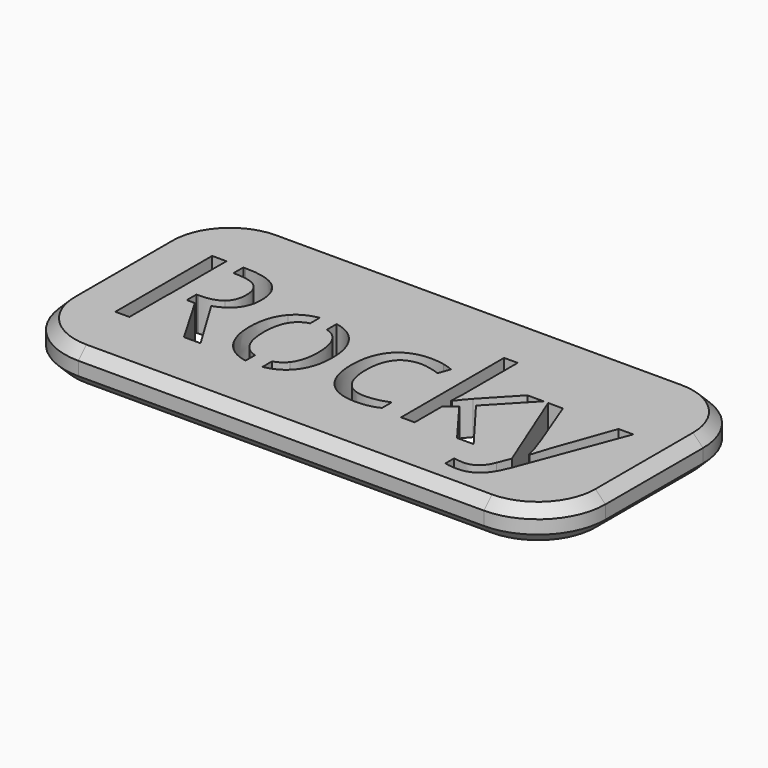
from build123d import *

# Parameters (mm, degrees)
F0_W     = 80
F0_H     = 38.0584481021
F0_W_2   = 2.5
F0_H_2   = 3.0301018535
F0_H_3   = 1.7870339268
F0_H_4   = 6.8463777852
F0_H_5   = 1.8262232673
F0_H_6   = 1.2891174926
F1_DEPTH = 5
F2_R     = 10
F3_SIZE  = 1.5


with BuildPart() as f1:
    # F0 (on Top) → F1 (new body)
    with BuildSketch(Plane.XY):
        with Locations((4.9899183214, -14.9412526352)):
            Rectangle(F0_W, F0_H)
        with BuildLine():
            Line((-8.1583093852, -10.3956553421), (-8.1583093852, -8.6449896917))
            Line((-8.1583093852, -8.6449896917), (-5.6583093852, -8.6449896917))
            Line((-5.6583093852, -8.6449896917), (-5.6583093852, -10.4018821078))
            add(Edge.make_bspline(
                [(-5.6583093852, -10.4018821078), (-3.7018317601, -10.7356711162), (-2.4266643681, -12.176444663)],
                knots=[0.2316734709, 0.2316734709, 0.2316734709, 1, 1, 1], degree=2))
            add(Edge.make_bspline(
                [(-2.4266643681, -12.176444663), (-0.766995798, -14.0516546058), (-0.766995798, -17.2455858565)],
                knots=[0, 0, 0, 1, 1, 1], degree=2))
            add(Edge.make_bspline(
                [(-0.766995798, -17.2455858565), (-0.766995798, -20.5296525904), (-2.4188265, -22.3735110609)],
                knots=[0, 0, 0, 1, 1, 1], degree=2))
            add(Edge.make_bspline(
                [(-2.4188265, -22.3735110609), (-3.6738058121, -23.7743835788), (-5.6583093852, -24.1109424073)],
                knots=[0, 0, 0, 0.7597505667, 0.7597505667, 0.7597505667], degree=2))
            Line((-5.6583093852, -24.1109424073), (-5.6583093852, -26.3445042074))
            Line((-5.6583093852, -26.3445042074), (-8.1583093852, -26.3445042074))
            Line((-8.1583093852, -26.3445042074), (-8.1583093852, -24.1206810532))
            add(Edge.make_bspline(
                [(-8.1583093852, -24.1206810532), (-9.2605676573, -23.9312824708), (-10.18419432, -23.3708797766)],
                knots=[0.3379687219, 0.3379687219, 0.3379687219, 1, 1, 1], degree=2))
            add(Edge.make_bspline(
                [(-10.18419432, -23.3708797766), (-11.5793348418, -22.5243900218), (-12.3396080475, -20.9450595997)],
                knots=[0, 0, 0, 1, 1, 1], degree=2))
            add(Edge.make_bspline(
                [(-12.3396080475, -20.9450595997), (-13.0998812531, -19.3657291776), (-13.0998812531, -17.2455858565)],
                knots=[0, 0, 0, 1, 1, 1], degree=2))
            add(Edge.make_bspline(
                [(-13.0998812531, -17.2455858565), (-13.0998812531, -13.9654380567), (-11.4578478862, -12.1333363884)],
                knots=[0, 0, 0, 1, 1, 1], degree=2))
            add(Edge.make_bspline(
                [(-11.4578478862, -12.1333363884), (-10.1885842342, -10.7171531967), (-8.1583093852, -10.3956553421)],
                knots=[0, 0, 0, 0.7729828624, 0.7729828624, 0.7729828624], degree=2))
        make_face(mode=Mode.SUBTRACT)
        with BuildLine():
            add(Edge.make_bspline(
                [(11.554132855, -23.5158803364), (10.2099384759, -24.2173695314), (8.1642549018, -24.2173695314)],
                knots=[0, 0, 0, 1, 1, 1], degree=2))
            add(Edge.make_bspline(
                [(8.1642549018, -24.2173695314), (5.2485679687, -24.2173695314), (3.6496428763, -22.4224977365)],
                knots=[0, 0, 0, 1, 1, 1], degree=2))
            add(Edge.make_bspline(
                [(3.6496428763, -22.4224977365), (2.0507177839, -20.6276259416), (2.0507177839, -17.3435592078)],
                knots=[0, 0, 0, 1, 1, 1], degree=2))
            add(Edge.make_bspline(
                [(2.0507177839, -17.3435592078), (2.0507177839, -13.9771948589), (3.6751159476, -12.1392147895)],
                knots=[0, 0, 0, 1, 1, 1], degree=2))
            add(Edge.make_bspline(
                [(3.6751159476, -12.1392147895), (5.2995141113, -10.3012347201), (8.2974986595, -10.3012347201)],
                knots=[0, 0, 0, 1, 1, 1], degree=2))
            add(Edge.make_bspline(
                [(8.2974986595, -10.3012347201), (9.2654753699, -10.3012347201), (10.2334520802, -10.5108976917)],
                knots=[0, 0, 0, 1, 1, 1], degree=2))
            add(Edge.make_bspline(
                [(10.2334520802, -10.5108976917), (11.2014287905, -10.7205606634), (11.7500795575, -11.002723915)],
                knots=[0, 0, 0, 1, 1, 1], degree=2))
            Line((11.7500795575, -11.002723915), (11.1269690436, -12.727054897))
            add(Edge.make_bspline(
                [(11.1269690436, -12.727054897), (10.452912387, -12.4566484475), (9.6573687748, -12.2802964153)],
                knots=[0, 0, 0, 1, 1, 1], degree=2))
            add(Edge.make_bspline(
                [(9.6573687748, -12.2802964153), (8.8618251627, -12.103944383), (8.2504714509, -12.103944383)],
                knots=[0, 0, 0, 1, 1, 1], degree=2))
            add(Edge.make_bspline(
                [(8.2504714509, -12.103944383), (4.1591043028, -12.103944383), (4.1591043028, -17.3200456035)],
                knots=[0, 0, 0, 1, 1, 1], degree=2))
            add(Edge.make_bspline(
                [(4.1591043028, -17.3200456035), (4.1591043028, -19.792892989), (5.1564730185, -21.1155332309)],
                knots=[0, 0, 0, 1, 1, 1], degree=2))
            add(Edge.make_bspline(
                [(5.1564730185, -21.1155332309), (6.1538417342, -22.4381734727), (8.1133087592, -22.4381734727)],
                knots=[0, 0, 0, 1, 1, 1], degree=2))
            add(Edge.make_bspline(
                [(8.1133087592, -22.4381734727), (9.7906125325, -22.4381734727), (11.554132855, -21.7170896075)],
                knots=[0, 0, 0, 1, 1, 1], degree=2))
            Line((11.554132855, -21.7170896075), (11.554132855, -23.5158803364))
        make_face(mode=Mode.SUBTRACT)
        with BuildLine():
            Line((31.1879924452, -24.0449364332), (25.7720255882, -10.5481275652))
            Line((25.7720255882, -10.5481275652), (27.954871854, -10.5481275652))
            Line((27.954871854, -10.5481275652), (30.8940723915, -18.2018057647))
            add(Edge.make_bspline(
                [(30.8940723915, -18.2018057647), (31.8581301677, -20.8235726441), (32.0932662107, -21.987496057)],
                knots=[0, 0, 0, 1, 1, 1], degree=2))
            Line((32.0932662107, -21.987496057), (32.191239562, -21.987496057))
            add(Edge.make_bspline(
                [(32.191239562, -21.987496057), (32.347996924, -21.360466609), (32.8574583505, -19.8477580657)],
                knots=[0, 0, 0, 1, 1, 1], degree=2))
            add(Edge.make_bspline(
                [(32.8574583505, -19.8477580657), (33.366919777, -18.3350495224), (36.1846333589, -10.5481275652)],
                knots=[0, 0, 0, 1, 1, 1], degree=2))
            Line((36.1846333589, -10.5481275652), (38.3635606906, -10.5481275652))
            Line((38.3635606906, -10.5481275652), (32.5948897691, -25.83197036))
            add(Edge.make_bspline(
                [(32.5948897691, -25.83197036), (31.7366432122, -28.0971142408), (30.5923144696, -29.0474557479)],
                knots=[0, 0, 0, 1, 1, 1], degree=2))
            add(Edge.make_bspline(
                [(30.5923144696, -29.0474557479), (29.447985727, -29.997797255), (27.7824387558, -29.997797255)],
                knots=[0, 0, 0, 1, 1, 1], degree=2))
            add(Edge.make_bspline(
                [(27.7824387558, -29.997797255), (26.8497324519, -29.997797255), (25.9444586864, -29.7861748163)],
                knots=[0, 0, 0, 1, 1, 1], degree=2))
            Line((25.9444586864, -29.7861748163), (25.9444586864, -28.1598171856))
            add(Edge.make_bspline(
                [(25.9444586864, -28.1598171856), (26.618515343, -28.3048177455), (27.4493293616, -28.3048177455)],
                knots=[0, 0, 0, 1, 1, 1], degree=2))
            add(Edge.make_bspline(
                [(27.4493293616, -28.3048177455), (29.5459590783, -28.3048177455), (30.4394760417, -25.9534573155)],
                knots=[0, 0, 0, 1, 1, 1], degree=2))
            Line((30.4394760417, -25.9534573155), (31.1879924452, -24.0449364332))
        make_face(mode=Mode.SUBTRACT)
        with BuildLine():
            Line((-25.429693982, -6.0648670121), (-25.429693982, -4.7757495195))
            Line((-25.429693982, -4.7757495195), (-22.929693982, -4.7757495195))
            Line((-22.929693982, -4.7757495195), (-22.929693982, -6.0648670121))
            Line((-22.929693982, -6.0648670121), (-22.6385667307, -6.0648670121))
            add(Edge.make_bspline(
                [(-22.6385667307, -6.0648670121), (-19.3427431947, -6.0648670121), (-17.7692911736, -7.3267637762)],
                knots=[0, 0, 0, 1, 1, 1], degree=2))
            add(Edge.make_bspline(
                [(-17.7692911736, -7.3267637762), (-16.1958391526, -8.5886605402), (-16.1958391526, -11.1242108705)],
                knots=[0, 0, 0, 1, 1, 1], degree=2))
            add(Edge.make_bspline(
                [(-16.1958391526, -11.1242108705), (-16.1958391526, -14.6747651198), (-19.7973395445, -15.9249050817)],
                knots=[0, 0, 0, 1, 1, 1], degree=2))
            Line((-19.7973395445, -15.9249050817), (-14.9339423885, -23.9704766862))
            Line((-14.9339423885, -23.9704766862), (-17.3950329719, -23.9704766862))
            Line((-17.3950329719, -23.9704766862), (-21.7293740311, -16.5245019914))
            Line((-21.7293740311, -16.5245019914), (-22.929693982, -16.5245019914))
            Line((-22.929693982, -16.5245019914), (-22.929693982, -19.5546038449))
            Line((-22.929693982, -19.5546038449), (-25.429693982, -19.5546038449))
            Line((-25.429693982, -19.5546038449), (-25.429693982, -16.5245019914))
            Line((-25.429693982, -16.5245019914), (-25.4680371148, -16.5245019914))
            Line((-25.4680371148, -16.5245019914), (-25.4680371148, -23.9704766862))
            Line((-25.4680371148, -23.9704766862), (-27.5489910953, -23.9704766862))
            Line((-27.5489910953, -23.9704766862), (-27.5489910953, -6.0648670121))
            Line((-27.5489910953, -6.0648670121), (-25.429693982, -6.0648670121))
        make_face(mode=Mode.SUBTRACT)
        with BuildLine():
            Line((16.652666054, -17.1005852967), (16.7506394052, -17.1005852967))
            add(Edge.make_bspline(
                [(16.7506394052, -17.1005852967), (17.2757765679, -16.3520688932), (18.3534834317, -15.1411182717)],
                knots=[0, 0, 0, 1, 1, 1], degree=2))
            Line((18.3534834317, -15.1411182717), (22.6878244909, -10.5481275652))
            Line((22.6878244909, -10.5481275652), (25.1018878657, -10.5481275652))
            Line((25.1018878657, -10.5481275652), (19.6624074043, -16.2658523441))
            Line((19.6624074043, -16.2658523441), (25.4820244685, -23.9704766862))
            Line((25.4820244685, -23.9704766862), (23.0209338851, -23.9704766862))
            Line((23.0209338851, -23.9704766862), (18.2790236847, -17.6257224594))
            Line((18.2790236847, -17.6257224594), (16.7506394052, -18.9503221683))
            Line((16.7506394052, -18.9503221683), (16.7506394052, -23.9704766862))
            Line((16.7506394052, -23.9704766862), (14.7402262376, -23.9704766862))
            Line((14.7402262376, -23.9704766862), (14.7402262376, -4.9127004014))
            Line((14.7402262376, -4.9127004014), (16.7506394052, -4.9127004014))
            Line((16.7506394052, -4.9127004014), (16.7506394052, -15.0196313162))
            add(Edge.make_bspline(
                [(16.7506394052, -15.0196313162), (16.7506394052, -15.6897690387), (16.652666054, -17.1005852967)],
                knots=[0, 0, 0, 1, 1, 1], degree=2))
        make_face(mode=Mode.SUBTRACT)
        with Locations((-24.179693982, -18.0395529181)):
            Rectangle(F0_W_2, F0_H_2)
        with Locations((-24.179693982, -15.630985028)):
            Rectangle(F0_W_2, F0_H_3)
        with Locations((-24.179693982, -11.314279172)):
            Rectangle(F0_W_2, F0_H_4)
        with BuildLine():
            Line((-22.7600536862, -7.8910902793), (-22.929693982, -7.8910902793))
            Line((-22.929693982, -7.8910902793), (-22.929693982, -14.7374680646))
            Line((-22.929693982, -14.7374680646), (-22.6111341923, -14.7374680646))
            add(Edge.make_bspline(
                [(-22.6111341923, -14.7374680646), (-20.4086932563, -14.7374680646), (-19.3799730682, -13.8615863044)],
                knots=[0, 0, 0, 1, 1, 1], degree=2))
            add(Edge.make_bspline(
                [(-19.3799730682, -13.8615863044), (-18.3512528801, -12.9857045443), (-18.3512528801, -11.2339410239)],
                knots=[0, 0, 0, 1, 1, 1], degree=2))
            add(Edge.make_bspline(
                [(-18.3512528801, -11.2339410239), (-18.3512528801, -9.4586638993), (-19.3976082714, -8.6748770893)],
                knots=[0, 0, 0, 1, 1, 1], degree=2))
            add(Edge.make_bspline(
                [(-19.3976082714, -8.6748770893), (-20.4439636627, -7.8910902793), (-22.7600536862, -7.8910902793)],
                knots=[0, 0, 0, 1, 1, 1], degree=2))
        make_face()
        with Locations((-24.179693982, -6.9779786457)):
            Rectangle(F0_W_2, F0_H_5)
        with Locations((-24.179693982, -5.4203082658)):
            Rectangle(F0_W_2, F0_H_6)
        with BuildLine():
            Line((-8.1583093852, -22.3639969693), (-8.1583093852, -12.1685004066))
            add(Edge.make_bspline(
                [(-8.1583093852, -12.1685004066), (-9.2887412613, -12.4563727613), (-9.9745313483, -13.3403680758)],
                knots=[0.3256491861, 0.3256491861, 0.3256491861, 1, 1, 1], degree=2))
            add(Edge.make_bspline(
                [(-9.9745313483, -13.3403680758), (-10.9914947343, -14.6512515155), (-10.9914947343, -17.2455858565)],
                knots=[0, 0, 0, 1, 1, 1], degree=2))
            add(Edge.make_bspline(
                [(-10.9914947343, -17.2455858565), (-10.9914947343, -19.8203255274), (-9.9627745462, -21.1664793735)],
                knots=[0, 0, 0, 1, 1, 1], degree=2))
            add(Edge.make_bspline(
                [(-9.9627745462, -21.1664793735), (-9.2758860188, -22.065322075), (-8.1583093852, -22.3639969693)],
                knots=[0, 0, 0, 0.6677117211, 0.6677117211, 0.6677117211], degree=2))
        make_face()
        with BuildLine():
            add(Edge.make_bspline(
                [(-6.9628305309, -12.0294846361), (-7.612415152, -12.0294846361), (-8.1583093852, -12.1685004066)],
                knots=[0, 0, 0, 0.3256491861, 0.3256491861, 0.3256491861], degree=2))
            Line((-8.1583093852, -12.1685004066), (-8.1583093852, -22.3639969693))
            add(Edge.make_bspline(
                [(-8.1583093852, -22.3639969693), (-7.6021447945, -22.5126332197), (-6.9393169266, -22.5126332197)],
                knots=[0.6677117211, 0.6677117211, 0.6677117211, 1, 1, 1], degree=2))
            add(Edge.make_bspline(
                [(-6.9393169266, -22.5126332197), (-6.2397600304, -22.5126332197), (-5.6583093852, -22.3484367242)],
                knots=[0, 0, 0, 0.3500135933, 0.3500135933, 0.3500135933], degree=2))
            Line((-5.6583093852, -22.3484367242), (-5.6583093852, -12.1950102409))
            add(Edge.make_bspline(
                [(-5.6583093852, -12.1950102409), (-6.2490471669, -12.0294846361), (-6.9628305309, -12.0294846361)],
                knots=[0.6470210839, 0.6470210839, 0.6470210839, 1, 1, 1], degree=2))
        make_face()
        with BuildLine():
            add(Edge.make_bspline(
                [(-3.906061972, -13.358003279), (-4.5754690726, -12.4984237067), (-5.6583093852, -12.1950102409)],
                knots=[0, 0, 0, 0.6470210839, 0.6470210839, 0.6470210839], degree=2))
            Line((-5.6583093852, -12.1950102409), (-5.6583093852, -22.3484367242))
            add(Edge.make_bspline(
                [(-5.6583093852, -22.3484367242), (-4.5785369913, -22.0435185951), (-3.906061972, -21.1723577746)],
                knots=[0.3500135933, 0.3500135933, 0.3500135933, 1, 1, 1], degree=2))
            add(Edge.make_bspline(
                [(-3.906061972, -21.1723577746), (-2.8714633828, -19.8320823295), (-2.8714633828, -17.2455858565)],
                knots=[0, 0, 0, 1, 1, 1], degree=2))
            add(Edge.make_bspline(
                [(-2.8714633828, -17.2455858565), (-2.8714633828, -14.6865219219), (-3.906061972, -13.358003279)],
                knots=[0, 0, 0, 1, 1, 1], degree=2))
        make_face()
        with BuildLine():
            add(Edge.make_bspline(
                [(-8.1583093852, -10.3956553421), (-7.562038488, -10.3012347201), (-6.9001275861, -10.3012347201)],
                knots=[0.7729828624, 0.7729828624, 0.7729828624, 1, 1, 1], degree=2))
            Line((-8.1583093852, -10.3956553421), (-8.1583093852, -12.1685004066))
            add(Edge.make_bspline(
                [(-6.9628305309, -12.0294846361), (-7.612415152, -12.0294846361), (-8.1583093852, -12.1685004066)],
                knots=[0, 0, 0, 0.3256491861, 0.3256491861, 0.3256491861], degree=2))
            add(Edge.make_bspline(
                [(-5.6583093852, -12.1950102409), (-6.2490471669, -12.0294846361), (-6.9628305309, -12.0294846361)],
                knots=[0.6470210839, 0.6470210839, 0.6470210839, 1, 1, 1], degree=2))
            Line((-5.6583093852, -12.1950102409), (-5.6583093852, -10.4018821078))
            add(Edge.make_bspline(
                [(-6.9001275861, -10.3012347201), (-6.2482460137, -10.3012347201), (-5.6583093852, -10.4018821078)],
                knots=[0, 0, 0, 0.2316734709, 0.2316734709, 0.2316734709], degree=2))
        make_face()
        with BuildLine():
            Line((-5.6583093852, -8.6449896917), (-8.1583093852, -8.6449896917))
            Line((-8.1583093852, -8.6449896917), (-8.1583093852, -10.3956553421))
            add(Edge.make_bspline(
                [(-8.1583093852, -10.3956553421), (-7.562038488, -10.3012347201), (-6.9001275861, -10.3012347201)],
                knots=[0.7729828624, 0.7729828624, 0.7729828624, 1, 1, 1], degree=2))
            add(Edge.make_bspline(
                [(-6.9001275861, -10.3012347201), (-6.2482460137, -10.3012347201), (-5.6583093852, -10.4018821078)],
                knots=[0, 0, 0, 0.2316734709, 0.2316734709, 0.2316734709], degree=2))
            Line((-5.6583093852, -10.4018821078), (-5.6583093852, -8.6449896917))
        make_face()
        with BuildLine():
            add(Edge.make_bspline(
                [(-6.9863441352, -24.2173695314), (-7.5956036161, -24.2173695314), (-8.1583093852, -24.1206810532)],
                knots=[0, 0, 0, 0.3379687219, 0.3379687219, 0.3379687219], degree=2))
            Line((-8.1583093852, -24.1206810532), (-8.1583093852, -26.3445042074))
            Line((-8.1583093852, -26.3445042074), (-5.6583093852, -26.3445042074))
            Line((-5.6583093852, -26.3445042074), (-5.6583093852, -24.1109424073))
            add(Edge.make_bspline(
                [(-5.6583093852, -24.1109424073), (-6.285852002, -24.2173695314), (-6.9863441352, -24.2173695314)],
                knots=[0.7597505667, 0.7597505667, 0.7597505667, 1, 1, 1], degree=2))
        make_face()
        with BuildLine():
            add(Edge.make_bspline(
                [(-8.1583093852, -22.3639969693), (-7.6021447945, -22.5126332197), (-6.9393169266, -22.5126332197)],
                knots=[0.6677117211, 0.6677117211, 0.6677117211, 1, 1, 1], degree=2))
            Line((-8.1583093852, -22.3639969693), (-8.1583093852, -24.1206810532))
            add(Edge.make_bspline(
                [(-6.9863441352, -24.2173695314), (-7.5956036161, -24.2173695314), (-8.1583093852, -24.1206810532)],
                knots=[0, 0, 0, 0.3379687219, 0.3379687219, 0.3379687219], degree=2))
            add(Edge.make_bspline(
                [(-5.6583093852, -24.1109424073), (-6.285852002, -24.2173695314), (-6.9863441352, -24.2173695314)],
                knots=[0.7597505667, 0.7597505667, 0.7597505667, 1, 1, 1], degree=2))
            Line((-5.6583093852, -24.1109424073), (-5.6583093852, -22.3484367242))
            add(Edge.make_bspline(
                [(-6.9393169266, -22.5126332197), (-6.2397600304, -22.5126332197), (-5.6583093852, -22.3484367242)],
                knots=[0, 0, 0, 0.3500135933, 0.3500135933, 0.3500135933], degree=2))
        make_face()
    extrude(amount=F1_DEPTH)

    # F2
    f2_edges = [f1.edges().sort_by_distance(p)[0] for p in [
        (-35.010082, 4.087971, 2.5),
        (-35.010082, -33.970477, 2.5),
        (44.989918, 4.087971, 2.5),
        (44.989918, -33.970477, 2.5),
    ]]
    fillet(f2_edges, radius=F2_R)

    # F3
    f3_edges = [f1.edges().sort_by_distance(p)[0] for p in [
        (-35.010082, -14.941253, 5),
        (-35.010082, -14.941253, 0),
    ]]
    chamfer(f3_edges, length=F3_SIZE)


solid = f1.part
